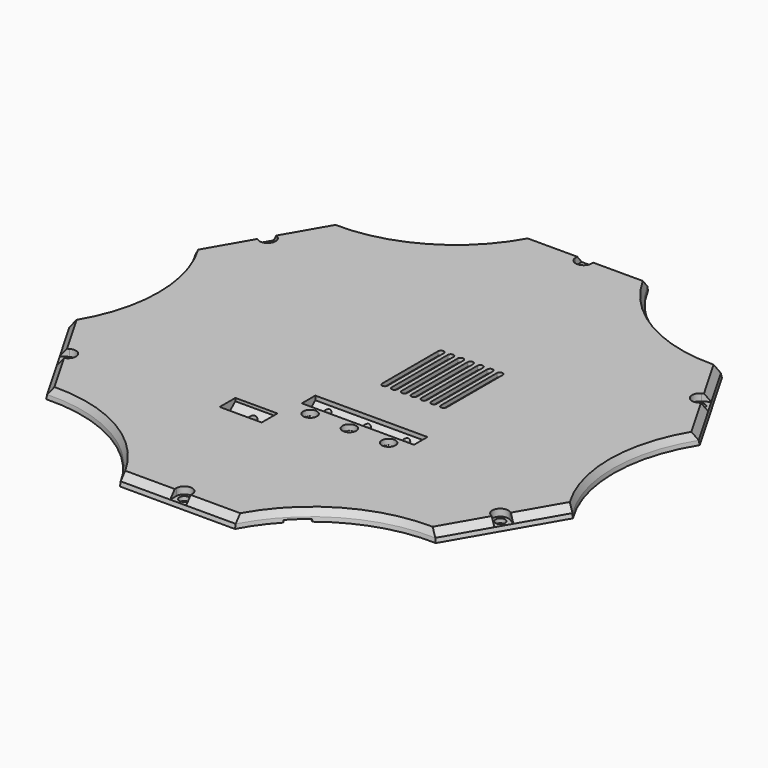
from build123d import *

# Parameters (mm, degrees)
PAD003_DEPTH             = 20
EXTRUDE100_DEPTH         = 0.7
PAD004_DEPTH             = 7.5
PAD005_DEPTH             = 35
SKETCH107_R              = 2
SKETCH107_R_2            = 1.9
EXTRUDE097_DEPTH         = 12
SKETCH110_R              = 2.45
EXTRUDE099_DEPTH         = 3
ARRAY007_X_COUNT         = 3
ARRAY007_X_PITCH         = 14
EXTRUDE127_DEPTH         = 5
SKETCH149_R              = 1.75
EXTRUDE126_DEPTH         = 5
ARRAY011_COUNT           = 6
ARRAY013_X_COUNT         = 3
ARRAY013_X_PITCH         = 14
BOX008_W                 = 8
BOX008_H                 = 10
BOX008_DEPTH             = 0.8
BOX008_PLACEMENT_ANGLE   = 45
SKETCH147_R              = 3.35
EXTRUDE090_DEPTH         = 2.5
BOX007_W                 = 3
BOX007_H                 = 7
BOX007_DEPTH             = 6
BOX006_W                 = 3
BOX006_H                 = 7
BOX006_DEPTH             = 6
ARRAY012_COUNT           = 5
ARRAY012_ANGLE           = 240
ARRAY012_PLACEMENT_ANGLE = 240
BOX016_W                 = 3
BOX016_H                 = 7
BOX016_DEPTH             = 6
EXTRUDE101_DEPTH         = 4.5


with BuildPart() as pad003:
    # Sketch113 → Pad003 (new body, symmetric)
    with BuildSketch(Plane(origin=(12.5, -24.25, 0), x_dir=(0, 1, 0), z_dir=(1, 0, 0))):
        Polygon((3, 4), (-3, 4), (-3, 2.517299), (0, 0), (3, 2.517299), align=None)
    extrude(amount=PAD003_DEPTH, both=True)


with BuildPart() as extrude100:
    # Sketch114 → Extrude100 (new body)
    with BuildSketch(Plane.XY):
        with BuildLine():
            ThreePointArc((47, -9.5), (54, -16.5), (61, -9.5))
            Line((61, -9.5), (61, 5.5))
            ThreePointArc((61, 5.5), (54, 12.5), (47, 5.5))
            Line((47, -9.5), (47, 5.5))
        make_face()
    extrude(amount=EXTRUDE100_DEPTH)


with BuildPart() as extrude100_1:
    # Extrude100 placement: moved
    add(extrude100.part.moved(Location((0, 0, 2.5))))


with BuildPart() as pad004:
    # Sketch115 → Pad004 (new body, symmetric)
    with BuildSketch(Plane(origin=(-16.5, -39.75, 0), x_dir=(0, 1, 0), z_dir=(1, 0, 0))):
        Polygon((3.5, 4), (-3.5, 4), (-3.5, 2.936849), (0, 0), (3.5, 2.936849), align=None)
    extrude(amount=PAD004_DEPTH, both=True)


with BuildPart() as pad005:
    # Sketch116 → Pad005 (new body, symmetric)
    with BuildSketch(Plane(origin=(11, -21.6642, -3), x_dir=(0, 1, 0), z_dir=(1, 0, 0))):
        Polygon((0, 0), (1.45, 0), (1.45, 3.983842), align=None)
    extrude(amount=PAD005_DEPTH, both=True)


with BuildPart() as extrude097:
    # Sketch107 → Extrude097 (new body)
    with BuildSketch(Plane.XY):
        with Locations((-15.8, -39.75)):
            Circle(SKETCH107_R)
        with Locations((-1.75, -30.75)):
            Circle(SKETCH107_R_2)
        with Locations((12.25, -30.75)):
            Circle(SKETCH107_R_2)
        with Locations((26.25, -30.75)):
            Circle(SKETCH107_R_2)
        with Locations((-1.75, -24.35)):
            Circle(SKETCH107_R)
        with Locations((12.25, -24.35)):
            Circle(SKETCH107_R)
        with Locations((26.25, -24.35)):
            Circle(SKETCH107_R)
        with BuildLine():
            ThreePointArc((4.5, 21), (3.5, 22), (2.5, 21))
            Line((2.5, 21), (2.5, -4))
            ThreePointArc((2.5, -4), (3.5, -5), (4.5, -4))
            Line((4.5, 21), (4.5, -4))
        make_face()
        with BuildLine():
            ThreePointArc((8, 21), (7, 22), (6, 21))
            Line((6, 21), (6, -4))
            ThreePointArc((6, -4), (7, -5), (8, -4))
            Line((8, 21), (8, -4))
        make_face()
        with BuildLine():
            ThreePointArc((11.5, 21), (10.5, 22), (9.5, 21))
            Line((9.5, 21), (9.5, -4))
            ThreePointArc((9.5, -4), (10.5, -5), (11.5, -4))
            Line((11.5, 21), (11.5, -4))
        make_face()
        with BuildLine():
            ThreePointArc((15, 21), (14, 22), (13, 21))
            Line((13, 21), (13, -4))
            ThreePointArc((13, -4), (14, -5), (15, -4))
            Line((15, 21), (15, -4))
        make_face()
        with BuildLine():
            ThreePointArc((25.5, 21), (24.5, 22), (23.5, 21))
            Line((23.5, 21), (23.5, -4))
            ThreePointArc((23.5, -4), (24.5, -5), (25.5, -4))
            Line((25.5, 21), (25.5, -4))
        make_face()
        with BuildLine():
            ThreePointArc((18.5, 21), (17.5, 22), (16.5, 21))
            Line((16.5, 21), (16.5, -4))
            ThreePointArc((16.5, -4), (17.5, -5), (18.5, -4))
            Line((18.5, 21), (18.5, -4))
        make_face()
        with BuildLine():
            ThreePointArc((22, 21), (21, 22), (20, 21))
            Line((20, 21), (20, -4))
            ThreePointArc((20, -4), (21, -5), (22, -4))
            Line((22, 21), (22, -4))
        make_face()
    extrude(amount=EXTRUDE097_DEPTH)


with BuildPart() as extrude097_1:
    # Extrude097 placement: moved
    add(extrude097.part.moved(Location((0, 0, -7))))


with BuildPart() as extrude099:
    # Sketch110 → Extrude099 (new body)
    with BuildSketch(Plane.XY):
        with Locations((-1.75, -30.75)):
            Circle(SKETCH110_R)
        with Locations((12.25, -30.75)):
            Circle(SKETCH110_R)
        with Locations((26.25, -30.75)):
            Circle(SKETCH110_R)
    extrude(amount=EXTRUDE099_DEPTH)


with BuildPart() as extrude099_1:
    # Extrude099 placement: moved
    add(extrude099.part.moved(Location((0, 0, 2))))


with BuildPart() as array007:
    # Cone001 → Cone001 (revolve)
    with BuildSketch(Plane(origin=(-1.75, -24.35, -1.5), x_dir=(1, 0, 0), z_dir=(0, -1, 0))):
        Polygon((0, 0), (1.75, 0), (3, 3), (0, 3), align=None)
    revolve(axis=Axis((-1.75, -24.35, -1.5), (0, 0, 1)))

    # Array007 X: Array007 ×3


with BuildPart() as array007_1:
    add(array007.part)
    with Locations(*[(i * ARRAY007_X_PITCH, 0, 0) for i in range(1, ARRAY007_X_COUNT)]):
        add(array007.part)


with BuildPart() as array007_2:
    # Array007 placement: moved
    add(array007_1.part.moved(Location((0, 0, 2))))


with BuildPart() as extrude127:
    # Sketch150 → Extrude127 (new body)
    with BuildSketch(Plane.XY):
        with BuildLine():
            Line((-2.85, 1.6e-05), (-2.85, -6.999984))
            Line((-2.85, -6.999984), (2.85, -6.999984))
            Line((2.85, -6.999984), (2.85, 9e-06))
            ThreePointArc((2.85, 9e-06), (4e-06, 2.85), (-2.85, 1.6e-05))
        make_face()
    extrude(amount=EXTRUDE127_DEPTH)


with BuildPart() as extrude127_1:
    # Extrude127 placement: moved
    add(extrude127.part.moved(Location((0, 0, 1.5))))


with BuildPart() as array011:
    # Sketch149 → Extrude126 (new body)
    with BuildSketch(Plane.XY):
        Circle(SKETCH149_R)
    extrude(amount=EXTRUDE126_DEPTH)

    # Fusion034004038: union Extrude127
    add(extrude127_1.part)


with BuildPart() as array011_1:
    # Fusion034004038 placement: moved
    add(array011.part.moved(Location((0, -89, 0))))

    # Array011: Array011 ×6 about axis
    array011_axis = Axis((0, 0, 0), (0, 0, 1))


with BuildPart() as array011_2:
    add(array011_1.part)
    for i in range(1, ARRAY011_COUNT):
        add(array011_1.part.rotate(array011_axis, i * 360 / ARRAY011_COUNT))


with BuildPart() as array013:
    # Cone002 → Cone002 (revolve)
    with BuildSketch(Plane(origin=(-1.75, -30.75, -1.5), x_dir=(1, 0, 0), z_dir=(0, -1, 0))):
        Polygon((0, 0), (1.75, 0), (2.45, 1.5), (0, 1.5), align=None)
    revolve(axis=Axis((-1.75, -30.75, -1.5), (0, 0, 1)))

    # Array013 X: Array013 ×3


with BuildPart() as array013_1:
    add(array013.part)
    with Locations(*[(i * ARRAY013_X_PITCH, 0, 0) for i in range(1, ARRAY013_X_COUNT)]):
        add(array013.part)


with BuildPart() as array013_2:
    # Array013 placement: moved
    add(array013_1.part.moved(Location((0, 0, 2))))


with BuildPart() as cube004:
    # Box008 → Box008 (new body)
    with BuildSketch(Plane.XY):
        with Locations((4, 5)):
            Rectangle(BOX008_W, BOX008_H)
    extrude(amount=BOX008_DEPTH)


with BuildPart() as cube004_1:
    # Box008 placement: moved
    add(cube004.part.moved(Location((30, -82, 0))).rotate(Axis((30, -82, 0), (0, 0, 1)), BOX008_PLACEMENT_ANGLE))


with BuildPart() as fusion029:
    # Cone → Cone (revolve)
    with BuildSketch(Plane(origin=(-27.5, -39.75, 4.5), x_dir=(1, 0, 0), z_dir=(0, -1, 0))):
        Polygon((0, 0), (1.75, 0), (3, 3), (0, 3), align=None)
    revolve(axis=Axis((-27.5, -39.75, 4.5), (0, 0, 1)))

    # Fusion029: union Pad003, Extrude100, Pad004, Pad005, Extrude097, Extrude099, Array007, Array011, Array013, Cube004
    add(pad003.part)
    add(extrude100_1.part)
    add(pad004.part)
    add(pad005.part)
    add(extrude097_1.part)
    add(extrude099_1.part)
    add(array007_2.part)
    add(array011_2.part)
    add(array013_2.part)
    add(cube004_1.part)


with BuildPart() as loft001:
    # Sketch101 → Loft001 section 0
    with BuildSketch(Plane.XY):
        with BuildLine():
            Line((84.363511, 25.035935), (63.863511, 60.542976))
            ThreePointArc((20.5, 85.578911), (38.93395, 67.435579), (63.863511, 60.542976))
            Line((20.5, 85.578911), (-20.5, 85.578911))
            ThreePointArc((-63.863511, 60.542976), (-38.93395, 67.435579), (-20.5, 85.578911))
            Line((-63.863511, 60.542976), (-84.363511, 25.035935))
            ThreePointArc((-84.363511, -25.035935), (-77.867899, 0), (-84.363511, 25.035935))
            Line((-84.363511, -25.035935), (-63.863511, -60.542976))
            ThreePointArc((-20.5, -85.578911), (-38.93395, -67.435579), (-63.863511, -60.542976))
            Line((-20.5, -85.578911), (20.5, -85.578911))
            ThreePointArc((63.863511, -60.542976), (38.93395, -67.435579), (20.5, -85.578911))
            Line((63.863511, -60.542976), (84.363511, -25.035935))
            ThreePointArc((84.363511, 25.035935), (77.867899, 0), (84.363511, -25.035935))
        make_face()
    # Sketch102 → Loft001 section 1
    with BuildSketch(Plane.XY.offset(2.5)):
        with BuildLine():
            Line((81.689222, 23.491934), (61.189222, 58.998975))
            ThreePointArc((20.5, 82.490909), (37.963167, 65.754133), (61.189222, 58.998975))
            Line((20.5, 82.490909), (-20.5, 82.490909))
            ThreePointArc((-61.189222, 58.998975), (-37.963167, 65.754133), (-20.5, 82.490909))
            Line((-61.189222, 58.998975), (-81.689222, 23.491934))
            ThreePointArc((-81.689222, -23.491934), (-75.926333, 0), (-81.689222, 23.491934))
            Line((-81.689222, -23.491934), (-61.189222, -58.998975))
            ThreePointArc((-20.5, -82.490909), (-37.963167, -65.754133), (-61.189222, -58.998975))
            Line((-20.5, -82.490909), (20.5, -82.490909))
            ThreePointArc((61.189222, -58.998975), (37.963167, -65.754133), (20.5, -82.490909))
            Line((61.189222, -58.998975), (81.689222, -23.491934))
            ThreePointArc((81.689222, 23.491934), (75.926333, 0), (81.689222, -23.491934))
        make_face()
    loft(ruled=True)


with BuildPart() as cut009009:
    # Sketch098 → Loft section 0
    with BuildSketch(Plane.XY):
        with BuildLine():
            Line((89.963111, 28.268865), (69.463111, 63.775907))
            ThreePointArc((20.5, 92.044772), (40.910289, 70.858699), (69.463111, 63.775907))
            Line((20.5, 92.044772), (-20.5, 92.044772))
            ThreePointArc((-69.463111, 63.775907), (-40.910289, 70.858699), (-20.5, 92.044772))
            Line((-69.463111, 63.775907), (-89.963111, 28.268865))
            ThreePointArc((-89.963111, -28.268865), (-81.820578, 0), (-89.963111, 28.268865))
            Line((-89.963111, -28.268865), (-69.463111, -63.775907))
            ThreePointArc((-20.5, -92.044772), (-40.910289, -70.858699), (-69.463111, -63.775907))
            Line((-20.5, -92.044772), (20.5, -92.044772))
            ThreePointArc((69.463111, -63.775907), (40.910289, -70.858699), (20.5, -92.044772))
            Line((69.463111, -63.775907), (89.963111, -28.268865))
            ThreePointArc((89.963111, 28.268865), (81.820578, 0), (89.963111, -28.268865))
        make_face()
    # Sketch099 → Loft section 1
    with BuildSketch(Plane.XY.offset(1.5)):
        with BuildLine():
            Line((89.696916, 28.115178), (69.196916, 63.622219))
            ThreePointArc((20.5, 91.737397), (40.817989, 70.69883), (69.196916, 63.622219))
            Line((20.5, 91.737397), (-20.5, 91.737397))
            ThreePointArc((-69.196916, 63.622219), (-40.817989, 70.69883), (-20.5, 91.737397))
            Line((-69.196916, 63.622219), (-89.696916, 28.115178))
            ThreePointArc((-89.696916, -28.115178), (-81.635978, 0), (-89.696916, 28.115178))
            Line((-89.696916, -28.115178), (-69.196916, -63.622219))
            ThreePointArc((-20.5, -91.737397), (-40.817989, -70.69883), (-69.196916, -63.622219))
            Line((-20.5, -91.737397), (20.5, -91.737397))
            ThreePointArc((69.196916, -63.622219), (40.817989, -70.69883), (20.5, -91.737397))
            Line((69.196916, -63.622219), (89.696916, -28.115178))
            ThreePointArc((89.696916, 28.115178), (81.635978, 0), (89.696916, -28.115178))
        make_face()
    # Sketch100 → Loft section 2
    with BuildSketch(Plane.XY.offset(4)):
        with BuildLine():
            Line((87.921182, 27.089957), (67.421182, 62.596999))
            ThreePointArc((20.5, 89.686956), (40.198138, 69.625217), (67.421182, 62.596999))
            Line((20.5, 89.686956), (-20.5, 89.686956))
            ThreePointArc((-67.421182, 62.596999), (-40.198138, 69.625217), (-20.5, 89.686956))
            Line((-67.421182, 62.596999), (-87.921182, 27.089957))
            ThreePointArc((-87.921182, -27.089957), (-80.396276, 0), (-87.921182, 27.089957))
            Line((-87.921182, -27.089957), (-67.421182, -62.596999))
            ThreePointArc((-20.5, -89.686956), (-40.198138, -69.625217), (-67.421182, -62.596999))
            Line((-20.5, -89.686956), (20.5, -89.686956))
            ThreePointArc((67.421182, -62.596999), (40.198138, -69.625217), (20.5, -89.686956))
            Line((67.421182, -62.596999), (87.921182, -27.089957))
            ThreePointArc((87.921182, 27.089957), (80.396276, 0), (87.921182, -27.089957))
        make_face()
    loft(ruled=True)

    # Cut009009: cut Loft001
    add(loft001.part, mode=Mode.SUBTRACT)


with BuildPart() as extrude090:
    # Sketch147 → Extrude090 (new body)
    with BuildSketch(Plane(origin=(9.75, 0.05, -1.5), x_dir=(1, 0, 0), z_dir=(0, 0, 1))):
        with Locations((-11.5, -30.8)):
            Circle(SKETCH147_R)
        with Locations((2.5, -30.8)):
            Circle(SKETCH147_R)
        with Locations((16.5, -30.8)):
            Circle(SKETCH147_R)
    extrude(amount=-EXTRUDE090_DEPTH)


with BuildPart() as cube003:
    # Box007 → Box007 (new body)
    with BuildSketch(Plane(origin=(-8.5, 0, 0), x_dir=(1, 0, 0), z_dir=(0, 0, 1))):
        with Locations((1.5, 3.5)):
            Rectangle(BOX007_W, BOX007_H)
    extrude(amount=BOX007_DEPTH)


with BuildPart() as array012:
    # Box006 → Box006 (new body)
    with BuildSketch(Plane(origin=(5.5, 0, 0), x_dir=(1, 0, 0), z_dir=(0, 0, 1))):
        with Locations((1.5, 3.5)):
            Rectangle(BOX006_W, BOX006_H)
    extrude(amount=BOX006_DEPTH)

    # Fusion034004039: union Cube003
    add(cube003.part)


with BuildPart() as array012_1:
    # Fusion034004039 placement: moved
    add(array012.part.moved(Location((0, -84, -3))))

    # Array012: Array012 ×5 about axis
    array012_axis = Axis((0, 0, 0), (0, 0, 1))


with BuildPart() as array012_2:
    add(array012_1.part)
    for i in range(1, ARRAY012_COUNT):
        add(array012_1.part.rotate(array012_axis, i * ARRAY012_ANGLE / (ARRAY012_COUNT - 1)))


with BuildPart() as array012_3:
    # Array012 placement: moved
    add(array012_2.part.rotate(Axis((0, 0, 0), (0, 0, 1)), ARRAY012_PLACEMENT_ANGLE))


with BuildPart() as cube012:
    # Box016 → Box016 (new body)
    with BuildSketch(Plane(origin=(-8.5, 77, -3), x_dir=(1, 0, 0), z_dir=(0, 0, 1))):
        with Locations((1.5, 3.5)):
            Rectangle(BOX016_W, BOX016_H)
    extrude(amount=BOX016_DEPTH)


with BuildPart() as bodycovercut009010:
    # Sketch080 → Extrude101 (new body)
    with BuildSketch(Plane.XY):
        with BuildLine():
            Line((-8.000027, -20.25), (31.999973, -20.25))
            ThreePointArc((31.999973, -34.75), (39.249973, -27.5), (31.999973, -20.25))
            Line((31.999973, -34.75), (-8.000027, -34.75))
            ThreePointArc((-8.000027, -20.25), (-15.25, -27.5), (-8.000027, -34.75))
        make_face()
        with BuildLine():
            ThreePointArc((-25, -35.25), (-29.5, -39.75), (-25, -44.25))
            Line((-25, -44.25), (-8, -44.25))
            ThreePointArc((-8, -44.25), (-3.5, -39.75), (-8, -35.25))
            Line((-25, -35.25), (-8, -35.25))
        make_face()
    extrude(amount=-EXTRUDE101_DEPTH)


with BuildPart() as bodycovercut009010_1:
    # Extrude101 placement: moved
    add(bodycovercut009010.part.moved(Location((0, 0, 3))))

    # Fusion034004012: union Cut009009, Extrude090, Array012, Cube012
    add(cut009009.part)
    add(extrude090.part)
    add(array012_3.part)
    add(cube012.part)

    # Cut009010: cut Fusion029
    add(fusion029.part, mode=Mode.SUBTRACT)


with BuildPart() as bodycovercut009010_2:
    # Cut009010 placement: moved
    add(bodycovercut009010_1.part.moved(Location((0, 0, 22))))


solid = bodycovercut009010_2.part
